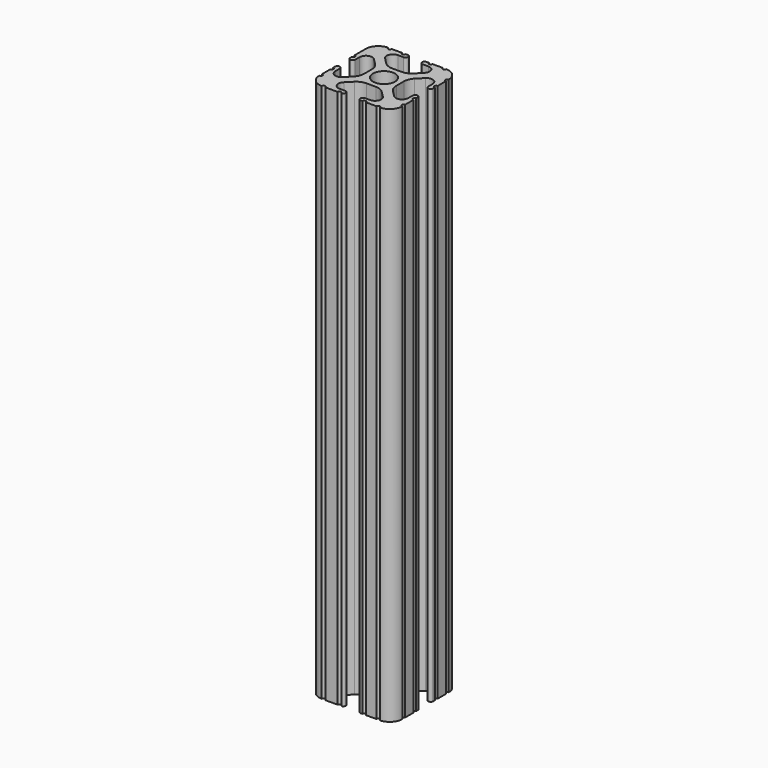
from build123d import *

# Parameters (mm, degrees)
F0_R     = 3.362501
F1_DEPTH = 165.1


with BuildPart() as f1:
    # F0 (on Top) → F1 (new body)
    with BuildSketch(Plane.XY):
        with BuildLine():
            ThreePointArc((-8.548576, 18.755238), (-9.784629, 17.929334), (-11.242653, 17.639315))
            Line((-11.242653, 17.639315), (-14.157347, 17.639315))
            ThreePointArc((-14.157347, 17.639315), (-15.615371, 17.929334), (-16.851424, 18.755238))
            Line((-16.851424, 18.755238), (-18.696905, 20.600719))
            ThreePointArc((-18.696905, 20.600719), (-19.109857, 22.67677), (-17.349867, 23.852758))
            Line((-17.349867, 23.852758), (-15.615371, 23.852758))
            Line((-15.615371, 23.852758), (-15.58302, 23.852758))
            ThreePointArc((-15.58302, 23.852758), (-14.825405, 24.626379), (-15.58302, 25.4))
            Line((-15.58302, 25.4), (-15.615371, 25.4))
            Line((-15.615371, 25.4), (-16.253341, 25.4))
            ThreePointArc((-16.253341, 25.4), (-16.801604, 24.858772), (-17.349867, 25.4))
            Line((-17.349867, 25.4), (-20.487482, 25.4))
            ThreePointArc((-20.487482, 25.4), (-21.038741, 24.848741), (-21.59, 25.4))
            ThreePointArc((-21.59, 25.4), (-24.284077, 24.284077), (-25.4, 21.59))
            Line((-25.4, 21.59), (-25.4, 20.504724))
            Line((-25.4, 20.504724), (-25.4, 17.349867))
            ThreePointArc((-25.4, 17.349867), (-24.844161, 16.802675), (-25.4, 16.255483))
            Line((-25.4, 16.255483), (-25.4, 15.615371))
            ThreePointArc((-25.4, 15.615371), (-24.626379, 14.859554), (-23.852758, 15.615371))
            Line((-23.852758, 15.615371), (-23.852758, 17.349867))
            ThreePointArc((-23.852758, 17.349867), (-22.67677, 19.109857), (-20.600719, 18.696905))
            Line((-20.600719, 18.696905), (-18.755238, 16.851424))
            ThreePointArc((-18.755238, 16.851424), (-17.929334, 15.615371), (-17.639315, 14.157347))
            Line((-17.639315, 14.157347), (-17.639315, 11.242653))
            ThreePointArc((-17.639315, 11.242653), (-17.929334, 9.784629), (-18.755238, 8.548576))
            Line((-18.755238, 8.548576), (-20.600719, 6.703095))
            ThreePointArc((-20.600719, 6.703095), (-22.67677, 6.290143), (-23.852758, 8.050133))
            Line((-23.852758, 8.050133), (-23.852758, 9.784629))
            ThreePointArc((-23.852758, 9.784629), (-24.626379, 10.55825), (-25.4, 9.784629))
            Line((-25.4, 9.784629), (-25.4, 9.149239))
            ThreePointArc((-25.4, 9.149239), (-24.899374, 8.599686), (-25.4, 8.050133))
            Line((-25.4, 8.050133), (-25.4, 4.904538))
            ThreePointArc((-25.4, 4.904538), (-24.846216, 4.357269), (-25.4, 3.81))
            ThreePointArc((-25.4, 3.81), (-24.284077, 1.115923), (-21.59, 0))
            ThreePointArc((-21.59, 0), (-21.040817, 0.554885), (-20.491634, 0))
            Line((-20.491634, 0), (-16.708169, 0))
            ThreePointArc((-16.708169, 0), (-16.16177, 0.540135), (-15.615371, 0))
            ThreePointArc((-15.615371, 0), (-14.854184, 0.7747), (-15.615371, 1.5494))
            Line((-15.615371, 1.5494), (-17.347709, 1.5494))
            ThreePointArc((-17.347709, 1.5494), (-19.107699, 2.725388), (-18.694747, 4.801438))
            Line((-18.694747, 4.801438), (-16.851424, 6.644762))
            ThreePointArc((-16.851424, 6.644762), (-15.615371, 7.470666), (-14.157347, 7.760685))
            Line((-14.157347, 7.760685), (-11.242653, 7.760685))
            ThreePointArc((-11.242653, 7.760685), (-9.784629, 7.470666), (-8.548576, 6.644762))
            Line((-8.548576, 6.644762), (-6.705253, 4.801438))
            ThreePointArc((-6.705253, 4.801438), (-6.292301, 2.725388), (-8.052291, 1.5494))
            Line((-8.052291, 1.5494), (-9.784629, 1.5494))
            ThreePointArc((-9.784629, 1.5494), (-10.401836, 0.7747), (-9.784629, 0))
            Line((-9.784629, 0), (-9.152868, 0))
            ThreePointArc((-9.152868, 0), (-8.602579, 0.545262), (-8.052291, 0))
            Line((-8.052291, 0), (-4.898866, 0))
            ThreePointArc((-4.898866, 0), (-4.354433, 0.544433), (-3.81, 0))
            ThreePointArc((-3.81, 0), (-1.115923, 1.115923), (0, 3.81))
            ThreePointArc((0, 3.81), (-0.53938, 4.3561), (0, 4.9022))
            Line((0, 4.9022), (0, 8.052291))
            ThreePointArc((0, 8.052291), (-0.543517, 8.60166), (0, 9.151029))
            Line((0, 9.151029), (0, 9.784629))
            ThreePointArc((0, 9.784629), (-0.7747, 10.504691), (-1.5494, 9.784629))
            Line((-1.5494, 9.784629), (-1.5494, 8.052291))
            ThreePointArc((-1.5494, 8.052291), (-2.725388, 6.292301), (-4.801438, 6.705253))
            Line((-4.801438, 6.705253), (-6.644762, 8.548576))
            ThreePointArc((-6.644762, 8.548576), (-7.470666, 9.784629), (-7.760685, 11.242653))
            Line((-7.760685, 11.242653), (-7.760685, 14.157347))
            ThreePointArc((-7.760685, 14.157347), (-7.470666, 15.615371), (-6.644762, 16.851424))
            Line((-6.644762, 16.851424), (-4.801438, 18.694747))
            ThreePointArc((-4.801438, 18.694747), (-2.725388, 19.107699), (-1.5494, 17.347709))
            Line((-1.5494, 17.347709), (-1.5494, 15.615371))
            ThreePointArc((-1.5494, 15.615371), (-0.7747, 14.879405), (0, 15.615371))
            Line((0, 15.615371), (0, 16.255509))
            ThreePointArc((0, 16.255509), (-0.5461, 16.801609), (0, 17.347709))
            Line((0, 17.347709), (0, 20.495165))
            ThreePointArc((0, 20.495165), (-0.551056, 21.042583), (0, 21.59))
            ThreePointArc((0, 21.59), (-1.115923, 24.284077), (-3.81, 25.4))
            ThreePointArc((-3.81, 25.4), (-4.365303, 24.903619), (-4.920606, 25.4))
            Line((-4.920606, 25.4), (-8.050133, 25.4))
            ThreePointArc((-8.050133, 25.4), (-8.596365, 24.859433), (-9.142596, 25.4))
            Line((-9.142596, 25.4), (-9.784629, 25.4))
            Line((-9.784629, 25.4), (-9.856203, 25.4))
            ThreePointArc((-9.856203, 25.4), (-10.594864, 24.626379), (-9.856203, 23.852758))
            Line((-9.856203, 23.852758), (-9.784629, 23.852758))
            Line((-9.784629, 23.852758), (-8.050133, 23.852758))
            ThreePointArc((-8.050133, 23.852758), (-6.290143, 22.67677), (-6.703095, 20.600719))
            Line((-6.703095, 20.600719), (-8.548576, 18.755238))
        make_face()
        with Locations((-12.7, 12.7)):
            Circle(F0_R, mode=Mode.SUBTRACT)
        with BuildLine():
            ThreePointArc((-9.856203, 23.852758), (-9.820416, 23.851931), (-9.784629, 23.852758))
            Line((-9.784629, 23.852758), (-9.856203, 23.852758))
        make_face()
        with BuildLine():
            Line((-15.58302, 23.852758), (-15.615371, 23.852758))
            ThreePointArc((-15.615371, 23.852758), (-15.599195, 23.852589), (-15.58302, 23.852758))
        make_face()
        with BuildLine():
            ThreePointArc((-9.784629, 25.4), (-9.820416, 25.400827), (-9.856203, 25.4))
            Line((-9.856203, 25.4), (-9.784629, 25.4))
        make_face()
        with BuildLine():
            Line((-15.615371, 25.4), (-15.58302, 25.4))
            ThreePointArc((-15.58302, 25.4), (-15.599195, 25.400169), (-15.615371, 25.4))
        make_face()
    extrude(amount=F1_DEPTH)


solid = f1.part
